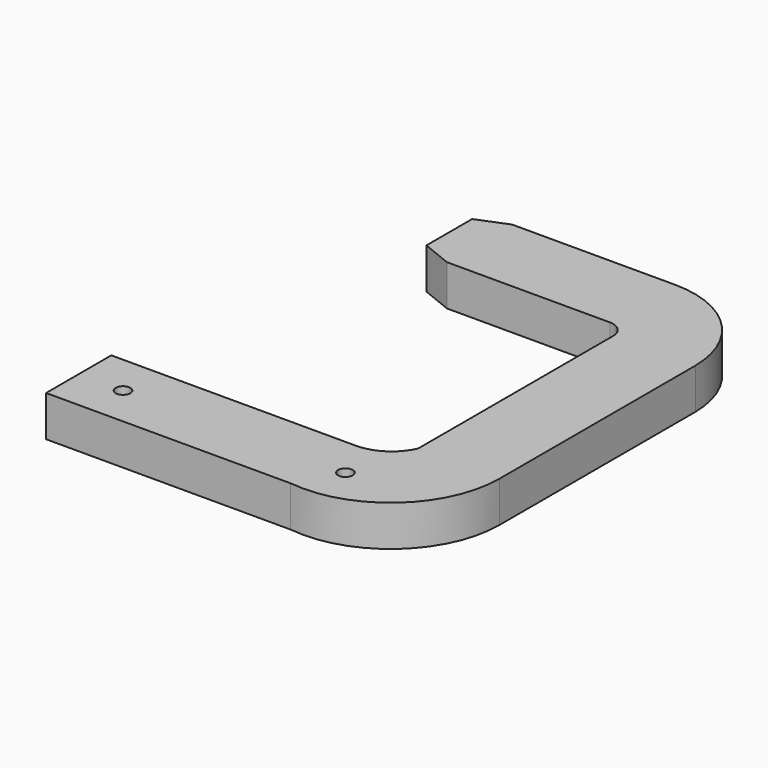
from build123d import *

# Parameters (mm, degrees)
F0_W     = 60
F0_H     = 20
F0_W_2   = 20
F0_H_2   = 60
F0_W_3   = 40
F1_DEPTH = 5
F2_R     = 1.8
F3_DEPTH = 26
F4_R     = 1.8
F5_DEPTH = 20


with BuildPart() as f1:
    # F0 (on Top) → F1 (new body, symmetric)
    with BuildSketch(Plane.XY):
        with Locations((-138.214068, 3.086677)):
            Rectangle(F0_W, F0_H)
        with BuildLine():
            ThreePointArc((-98.142568, 19.663455), (-102.199728, 14.87648), (-108.214068, 13.086677))
            Line((-108.214068, 13.086677), (-108.214068, -6.913323))
            ThreePointArc((-108.214068, -6.913323), (-87.188123, -0.402812), (-78.142568, 19.663455))
            Line((-78.142568, 19.663455), (-98.142568, 19.663455))
        make_face()
        with Locations((-88.142568, 49.663455)):
            Rectangle(F0_W_2, F0_H_2)
        with BuildLine():
            ThreePointArc((-102.141655, 83.454146), (-99.386567, 82.355881), (-98.142568, 79.663455))
            Line((-98.142568, 79.663455), (-78.142568, 79.663455))
            ThreePointArc((-78.142568, 79.663455), (-85.245257, 96.49855), (-102.141655, 103.454146))
            Line((-102.141655, 103.454146), (-102.141655, 83.454146))
        make_face()
        with Locations((-122.141655, 93.454146)):
            Rectangle(F0_W_3, F0_H)
        Polygon((-149.557854, 86.454146), (-142.141655, 83.454146), (-142.141655, 103.454146), (-149.557854, 100.454146), align=None)
    extrude(amount=F1_DEPTH, both=True)

    # F2 (on face) → F3 (cut)
    with BuildSketch(Plane.XY.offset(5)):
        with Locations((-157.338008, 3.086677)):
            Circle(F2_R)
    extrude(amount=-F3_DEPTH, mode=Mode.SUBTRACT)

    # F4 (on face) → F5 (cut)
    with BuildSketch(Plane.XY.offset(5)):
        with Locations((-102.756642, 3.086677)):
            Circle(F4_R)
    extrude(amount=-F5_DEPTH, mode=Mode.SUBTRACT)


solid = f1.part
